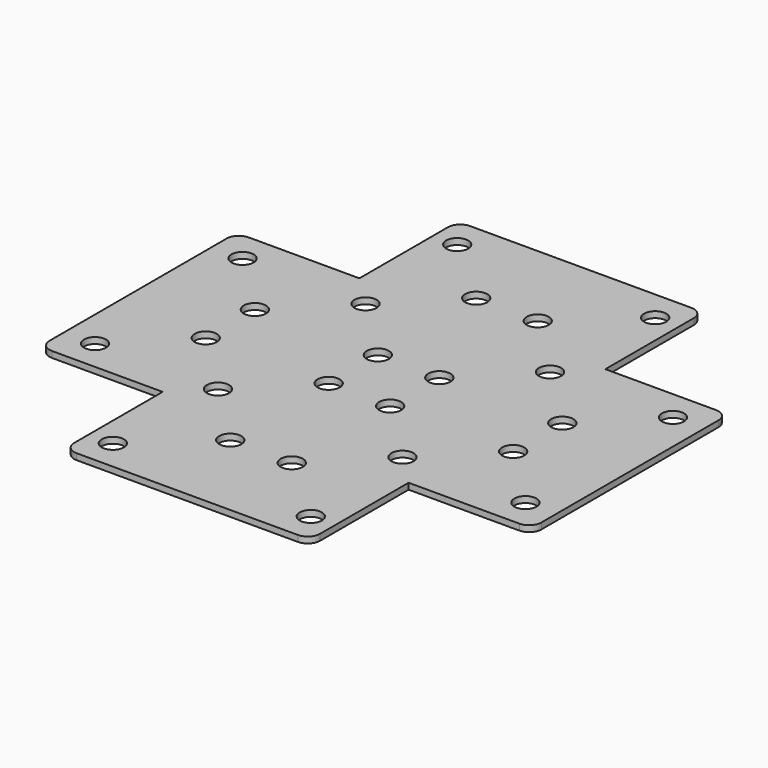
from build123d import *

# Parameters (mm, degrees)
F1_DEPTH = 5
F2_R     = 9
F3_DEPTH = 25
F4_R     = 10


with BuildPart() as f1:
    # F0 (on Top) → F1 (new body)
    with BuildSketch(Plane.XY):
        Polygon((-100, -200), (0, -200), (100, -200), (100, -100), (200, -100), (200, 0), (200, 100), (100, 100), (100, 200), (0, 200), (-100, 200), (-100, 100), (-200, 100), (-200, 0), (-200, -100), (-100, -100), align=None)
    extrude(amount=F1_DEPTH)

    # F2 (on face) → F3 (cut)
    with BuildSketch(Plane.XY.offset(5)):
        with Locations((25, 25)):
            Circle(F2_R)
        with Locations((75, 75)):
            Circle(F2_R)
        with Locations((125, 25)):
            Circle(F2_R)
        with Locations((175, 75)):
            Circle(F2_R)
        with Locations((25, 125)):
            Circle(F2_R)
        with Locations((80.500526, 175)):
            Circle(F2_R)
        with Locations((80.500526, -175)):
            Circle(F2_R)
        with Locations((25, -125)):
            Circle(F2_R)
        with Locations((175, -75)):
            Circle(F2_R)
        with Locations((75, -75)):
            Circle(F2_R)
        with Locations((125, -25)):
            Circle(F2_R)
        with Locations((25, -25)):
            Circle(F2_R)
        with Locations((-25, -125)):
            Circle(F2_R)
        with Locations((-175, 75)):
            Circle(F2_R)
        with Locations((-175, -75)):
            Circle(F2_R)
        with Locations((-80.500526, 175)):
            Circle(F2_R)
        with Locations((-25, 25)):
            Circle(F2_R)
        with Locations((-125, 25)):
            Circle(F2_R)
        with Locations((-125, -25)):
            Circle(F2_R)
        with Locations((-80.500526, -175)):
            Circle(F2_R)
        with Locations((-25, -25)):
            Circle(F2_R)
        with Locations((-25, 125)):
            Circle(F2_R)
        with Locations((-75, 75)):
            Circle(F2_R)
        with Locations((-75, -75)):
            Circle(F2_R)
    extrude(amount=-F3_DEPTH, mode=Mode.SUBTRACT)

    # F4
    f4_edges = [f1.edges().sort_by_distance(p)[0] for p in [
        (100, -200, 2.5),
        (-100, -200, 2.5),
        (-200, -100, 2.5),
        (-200, 100, 2.5),
        (-100, 200, 2.5),
        (100, 200, 2.5),
        (200, 100, 2.5),
        (200, -100, 2.5),
    ]]
    fillet(f4_edges, radius=F4_R)


solid = f1.part
